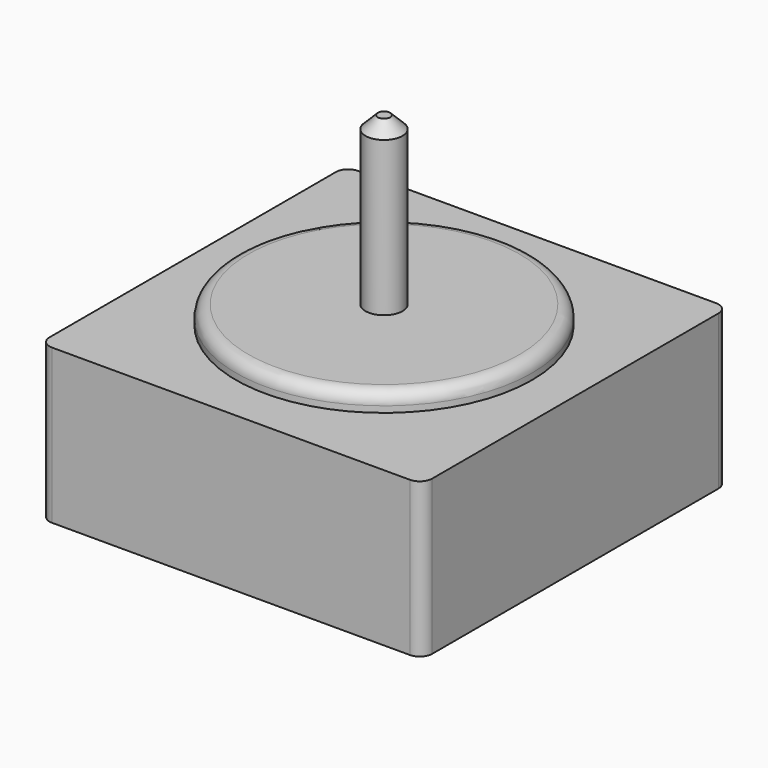
from build123d import *

# Parameters (mm, degrees)
F0_R     = 24
F0_R_2   = 3
F1_DEPTH = 3
F2_DEPTH = 30
F0_W     = 62
F0_H     = 62
F3_DEPTH = 25
F4_R     = 2
F5_R     = 2
F6_SIZE  = 2


with BuildPart() as f1:
    # F0 (on Top) → F1 (new body)
    with BuildSketch(Plane.XY):
        Circle(F0_R)
        Circle(F0_R_2, mode=Mode.SUBTRACT)
        Circle(F0_R_2)
    extrude(amount=F1_DEPTH)

    # F0 (on Top) → F2 (join)
    with BuildSketch(Plane.XY):
        Circle(F0_R_2)
    extrude(amount=F2_DEPTH)

    # F0 (on Top) → F3 (join)
    with BuildSketch(Plane.XY):
        Rectangle(F0_W, F0_H)
        Circle(F0_R, mode=Mode.SUBTRACT)
        Circle(F0_R)
        Circle(F0_R_2, mode=Mode.SUBTRACT)
        Circle(F0_R_2)
    extrude(amount=-F3_DEPTH)

    # F4
    f4_edges = [f1.edges().sort_by_distance(p)[0] for p in [
        (31, -31, -12.5),
        (31, 31, -12.5),
        (-31, -31, -12.5),
        (-31, 31, -12.5),
    ]]
    fillet(f4_edges, radius=F4_R)

    # F5
    f5_edges = [f1.edges().sort_by_distance(p)[0] for p in [
        (-24, 0, 3),
    ]]
    fillet(f5_edges, radius=F5_R)

    # F6
    f6_edges = [f1.edges().sort_by_distance(p)[0] for p in [
        (-3, 0, 30),
    ]]
    chamfer(f6_edges, length=F6_SIZE)


solid = f1.part
